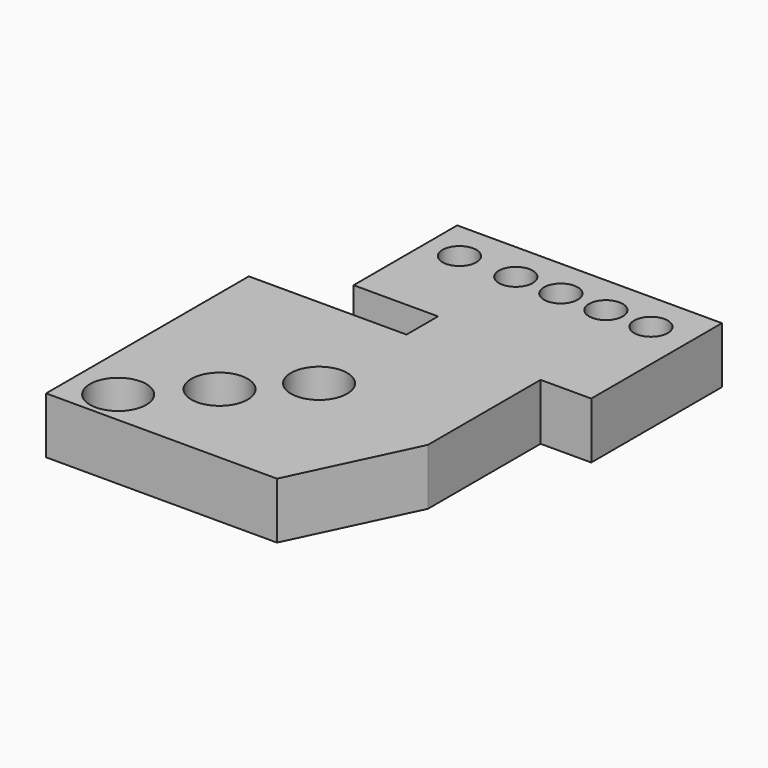
from build123d import *

# Parameters (mm, degrees)
F0_R     = 12.5
F0_R_2   = 7.5
F1_DEPTH = 25


with BuildPart() as f1:
    # F0 (on Top) → F1 (new body)
    with BuildSketch(Plane.XY):
        Polygon((-72.325271, 69.879032), (-72.325271, -42.620968), (30.174729, -42.620968), (55.174729, 9.879032), (55.174729, 72.379032), (77.674729, 72.379032), (77.674729, 144.879032), (-39.825271, 144.879032), (-39.825271, 87.379032), (-2.325271, 87.379032), (-2.325271, 69.879032), align=None)
        with Locations((-52.325271, -27.620968)):
            Circle(F0_R, mode=Mode.SUBTRACT)
        with Locations((-27.325271, -2.620968)):
            Circle(F0_R, mode=Mode.SUBTRACT)
        with Locations((-3.15025, 22.379032)):
            Circle(F0_R, mode=Mode.SUBTRACT)
        with Locations((-24.825271, 127.379032)):
            Circle(F0_R_2, mode=Mode.SUBTRACT)
        with Locations((0.174729, 127.379032)):
            Circle(F0_R_2, mode=Mode.SUBTRACT)
        with Locations((20.174729, 127.379032)):
            Circle(F0_R_2, mode=Mode.SUBTRACT)
        with Locations((40.174729, 127.379032)):
            Circle(F0_R_2, mode=Mode.SUBTRACT)
        with Locations((60.174729, 127.379032)):
            Circle(F0_R_2, mode=Mode.SUBTRACT)
    extrude(amount=F1_DEPTH)


solid = f1.part
